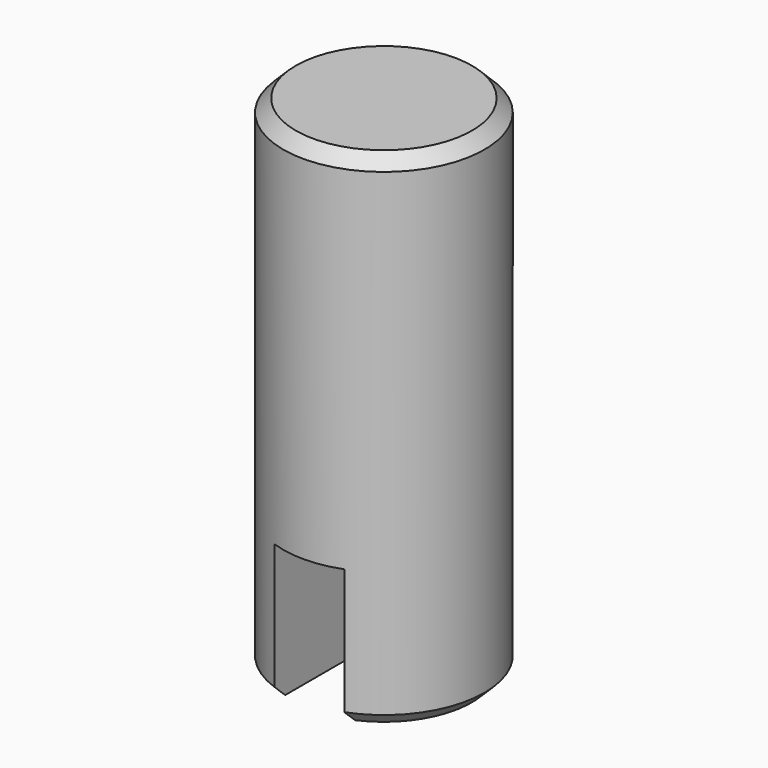
from build123d import *

# Parameters (mm, degrees)
F0_W     = 8
F0_H     = 40
F2_W     = 5.5
F2_H     = 11
F3_DEPTH = 12.5
F4_SIZE  = 1


with BuildPart() as f1:
    # F0 (on Front) → F1 (revolve)
    with BuildSketch(Plane.XZ):
        with Locations((-4, 20)):
            Rectangle(F0_W, F0_H)
    revolve(axis=Axis((0, 0, 20), (0, 0, -1)))

    # F2 (on Front) → F3 (cut, symmetric)
    with BuildSketch(Plane.XZ):
        with Locations((0.0883303039, 5.5)):
            Rectangle(F2_W, F2_H)
    extrude(amount=F3_DEPTH, both=True, mode=Mode.SUBTRACT)

    # F4
    f4_edges = [f1.edges().sort_by_distance(p)[0] for p in [
        (8, 0, 40),
        (8, 0, 0),
        (-6.530442, 4.620965, 0),
        (-6.530442, -4.620965, 0),
    ]]
    chamfer(f4_edges, length=F4_SIZE)


solid = f1.part
